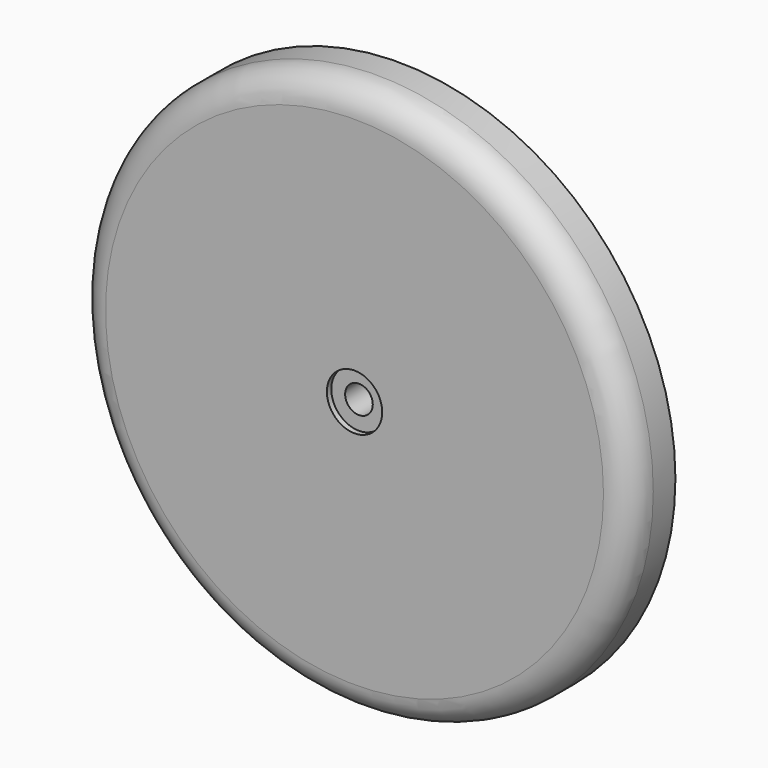
from build123d import *

# Parameters (mm, degrees)
F0_R      = 25
F1_DEPTH  = 5
F2_R      = 2.5
F3_R      = 2.5
F3_R_2    = 1.25
F4_DEPTH  = 0.5
F4_FACE_R = 1.25
F5_DEPTH  = 32.62


with BuildPart() as f1:
    # F0 (on Front) → F1 (new body)
    with BuildSketch(Plane.XZ):
        Circle(F0_R)
    extrude(amount=F1_DEPTH)

    # F2
    f2_edges = [f1.edges().sort_by_distance(p)[0] for p in [
        (-25, -5, 0),
    ]]
    fillet(f2_edges, radius=F2_R)

    # F3 (on face) → F4 (cut)
    with BuildSketch(Plane.XZ.offset(5)):
        Circle(F3_R)
        Circle(F3_R_2, mode=Mode.SUBTRACT)
    extrude(amount=-F4_DEPTH, mode=Mode.SUBTRACT)

    # F4_face (on face) → F5 (cut)
    with BuildSketch(Plane.XZ.offset(5)):
        Circle(F4_FACE_R)
    extrude(amount=-F5_DEPTH, mode=Mode.SUBTRACT)


solid = f1.part
